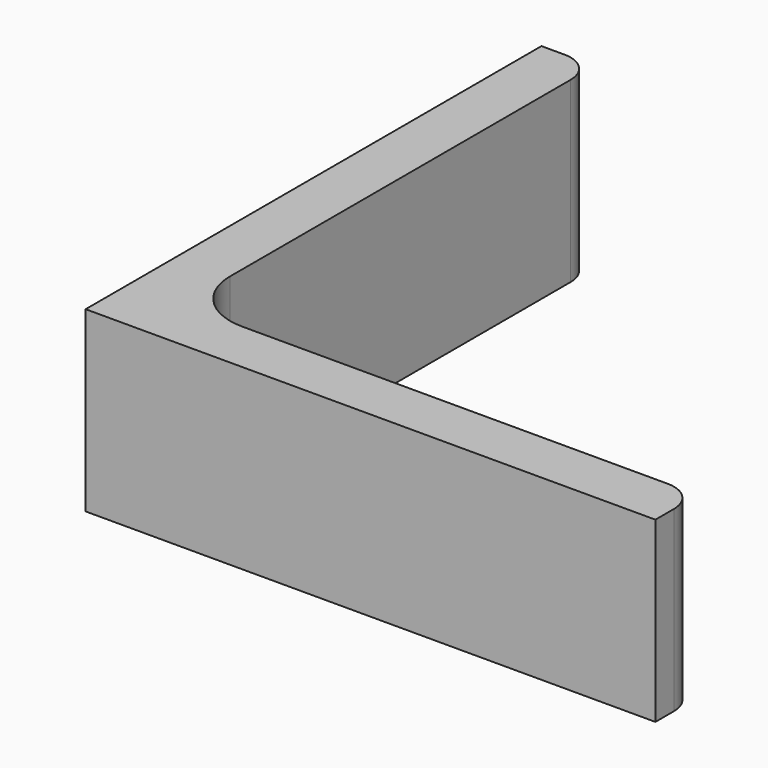
from build123d import *

# Parameters (mm, degrees)
EXTRUDE_DEPTH = 50


with BuildPart() as part:
    # Sketch → Extrude (new body)
    with BuildSketch(Plane.XY):
        with BuildLine():
            Line((0, 0), (160, 0))
            Line((160, 0), (160, 6.5))
            ThreePointArc((160, 6.5), (157.510408, 12.510408), (151.5, 15))
            Line((151.5, 15), (32, 15))
            ThreePointArc((15, 32), (19.979185, 19.979185), (32, 15))
            Line((15, 151.5), (15, 32))
            ThreePointArc((15, 151.5), (12.510408, 157.510408), (6.5, 160))
            Line((0, 160), (6.5, 160))
            Line((0, 0), (0, 160))
        make_face()
    extrude(amount=EXTRUDE_DEPTH)


solid = part.part
